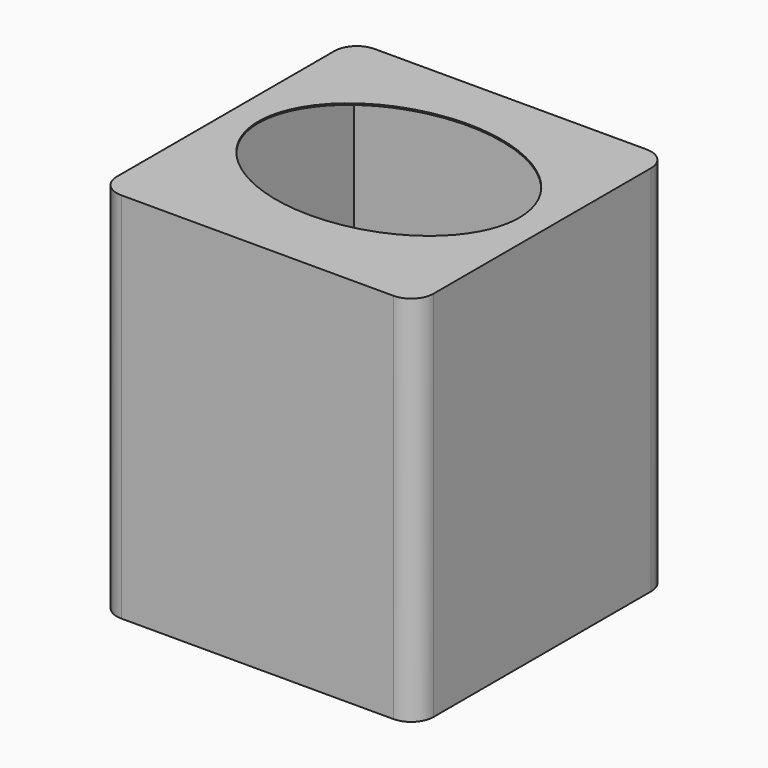
from build123d import *

# Parameters (mm, degrees)
F1_DEPTH = 127
F2_DEPTH = 3.175
F3_W     = 101.6
F3_H     = 101.6
F4_DEPTH = 0.508
F6_DEPTH = 12.7
F7_R     = 7.62


with BuildPart() as f1:
    # F0 (on Top) → F1 (new body)
    with BuildSketch(Plane.XY):
        Polygon((-53.975, -56.026683), (0, -56.026683), (53.975, -56.026683), (53.975, 51.923317), (-53.975, 51.923317), align=None)
        Polygon((50.8, -52.851683), (0, -52.851683), (-50.8, -52.851683), (-50.8, 48.748317), (50.8, 48.748317), align=None, mode=Mode.SUBTRACT)
    extrude(amount=F1_DEPTH)

    # F0 (on Top) → F2 (join)
    with BuildSketch(Plane.XY):
        Polygon((-50.8, -52.851683), (0, -52.851683), (50.8, -52.851683), (50.8, 48.748317), (-50.8, 48.748317), align=None)
    extrude(amount=F2_DEPTH)

    # F3 (on face) → F4 (join)
    with BuildSketch(Plane.XY.offset(127)):
        with Locations((0, -2.051683)):
            Rectangle(F3_W, F3_H)
    extrude(amount=-F4_DEPTH)

    # F5 (on face) → F6 (cut)
    with BuildSketch(Plane.XY.offset(127)):
        with BuildLine():
            add(Edge.make_bspline(
                [(44.45, 0), (44.45, 58.29217), (-22.225, 29.146085), (-88.9, 0), (-22.225, -29.146085), (44.45, -58.29217), (44.45, 0)],
                knots=[0, 0, 0, 2.094395, 2.094395, 4.18879, 4.18879, 6.283185, 6.283185, 6.283185], degree=2, weights=[1, 0.5, 1, 0.5, 1, 0.5, 1]))
        make_face()
    extrude(amount=-F6_DEPTH, mode=Mode.SUBTRACT)

    # F7
    f7_edges = [f1.edges().sort_by_distance(p)[0] for p in [
        (-53.975, -56.026683, 63.5),
        (-53.975, 51.923317, 63.5),
        (53.975, 51.923317, 63.5),
        (53.975, -56.026683, 63.5),
    ]]
    fillet(f7_edges, radius=F7_R)


solid = f1.part
